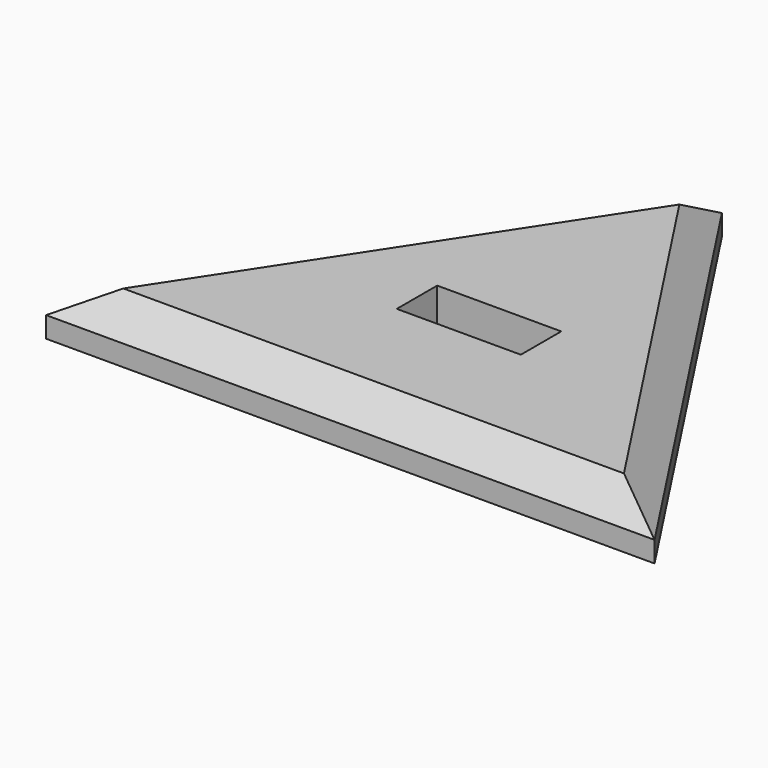
from build123d import *

# Parameters (mm, degrees)
F1_DEPTH  = 3.048
F2_SIZE   = 1.778
F3_W      = 7.570412
F3_H      = 3.080346
F4_DEPTH  = 0.508
F4_FACE_W = 7.570412
F4_FACE_H = 3.080346
F5_DEPTH  = 2.032


with BuildPart() as f1:
    # F0 (on Top) → F1 (new body)
    with BuildSketch(Plane.XY):
        Polygon((-18.5674, 0), (0, 0), (18.563472, 0), (0, 28.34343), align=None)
    extrude(amount=F1_DEPTH)

    # F2
    f2_edges = [f1.edges().sort_by_distance(p)[0] for p in [
        (-9.2837, 14.171715, 3.048),
        (-0.001964, 0, 3.048),
        (9.281736, 14.171715, 3.048),
    ]]
    chamfer(f2_edges, length=F2_SIZE)

    # F3 (on face) → F4 (cut)
    with BuildSketch(Plane.XY.offset(3.048)):
        with Locations((0, 9.814435)):
            Rectangle(F3_W, F3_H)
    extrude(amount=-F4_DEPTH, mode=Mode.SUBTRACT)

    # F4_face (on face) → F5 (cut)
    with BuildSketch(Plane(origin=(0, 9.814435, 2.54), x_dir=(1, 0, 0), z_dir=(0, 0, 1))):
        Rectangle(F4_FACE_W, F4_FACE_H)
    extrude(amount=-F5_DEPTH, mode=Mode.SUBTRACT)


solid = f1.part
